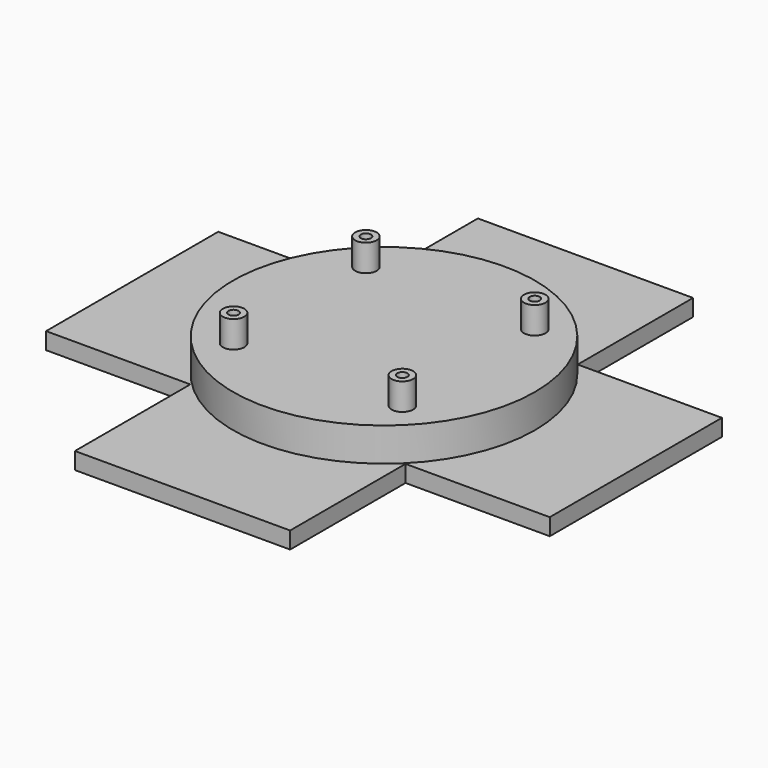
from build123d import *

# Parameters (mm, degrees)
F0_R     = 22.45
F1_DEPTH = 5
F2_W     = 32
F2_H     = 21.45
F2_H_2   = 32
F2_W_2   = 21.45
F3_DEPTH = 2.5
F4_R     = 1.6
F4_R_2   = 0.75
F5_DEPTH = 4


with BuildPart() as f1:
    # F0 (on Top) → F1 (new body)
    with BuildSketch(Plane.XY):
        Circle(F0_R)
    extrude(amount=F1_DEPTH)

    # F2 (on Top) → F3 (join)
    with BuildSketch(Plane.XY):
        with Locations((0, 26.725)):
            Rectangle(F2_W, F2_H)
        Rectangle(F2_W, F2_H_2)
        with Locations((-26.725, 0)):
            Rectangle(F2_W_2, F2_H_2)
        with Locations((26.725, 0)):
            Rectangle(F2_W_2, F2_H_2)
        with Locations((0, -26.725)):
            Rectangle(F2_W, F2_H)
    extrude(amount=-F3_DEPTH)

    # F4 (on face) → F5 (join)
    with BuildSketch(Plane.XY.offset(5)):
        with Locations((12.5612070115, 12.3107198171)):
            Circle(F4_R)
        with Locations((12.5612070115, 12.3107198171)):
            Circle(F4_R_2, mode=Mode.SUBTRACT)
        with Locations((-12.5387929885, 12.3107198171)):
            Circle(F4_R)
        with Locations((-12.5387929885, 12.3107198171)):
            Circle(F4_R_2, mode=Mode.SUBTRACT)
        with Locations((-12.5387929885, -12.2892801829)):
            Circle(F4_R)
        with Locations((-12.5387929885, -12.2892801829)):
            Circle(F4_R_2, mode=Mode.SUBTRACT)
        with Locations((12.5612070115, -12.2892801829)):
            Circle(F4_R)
        with Locations((12.5612070115, -12.2892801829)):
            Circle(F4_R_2, mode=Mode.SUBTRACT)
    extrude(amount=F5_DEPTH)


solid = f1.part
